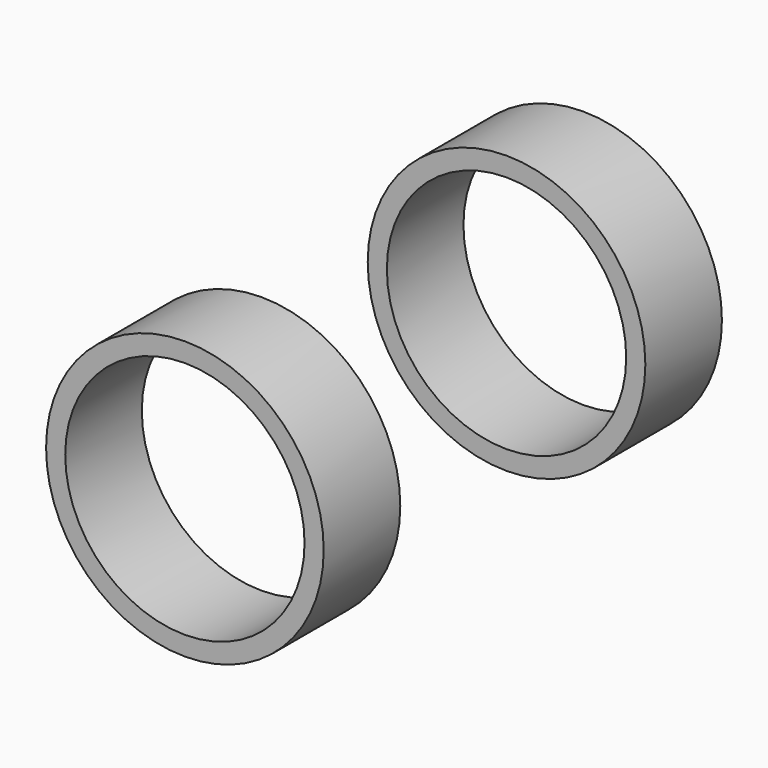
from build123d import *

# Parameters (mm, degrees)
F0_R     = 72.5
F0_R_2   = 62.5
F1_DEPTH = 50


with BuildPart() as f1:
    # F0 (on Front) → F1 (new body)
    with BuildSketch(Plane.XZ):
        Circle(F0_R)
        Circle(F0_R_2, mode=Mode.SUBTRACT)
    extrude(amount=F1_DEPTH)


with BuildPart() as f3_1:
    # F3: instance of F1
    add(f1.part.mirror(Plane.XZ.offset(-80)))


solid = Compound([f1.part, f3_1.part])
